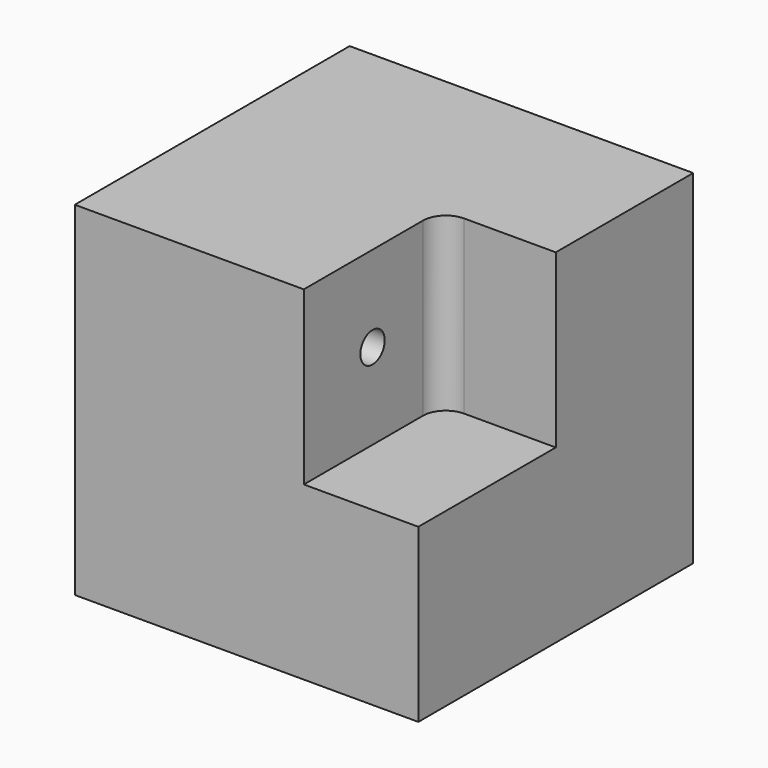
from build123d import *

# Parameters (mm, degrees)
F0_W     = 76.2
F0_H     = 76.2
F1_DEPTH = 38.1
F2_W     = 25.4
F2_H     = 38.1
F3_DEPTH = 38.1
F5_D     = 6.7564
F6_R     = 5.08


with BuildPart() as f1:
    # F0 (on Front) → F1 (new body, symmetric)
    with BuildSketch(Plane.XZ):
        Rectangle(F0_W, F0_H)
    extrude(amount=F1_DEPTH, both=True)

    # F2 (on face) → F3 (cut)
    with BuildSketch(Plane.XZ.offset(38.1)):
        with Locations((25.4, 19.05)):
            Rectangle(F2_W, F2_H)
    extrude(amount=-F3_DEPTH, mode=Mode.SUBTRACT)

    # F5 (through all)
    with Locations(Plane.YZ.offset(12.7)):
        with Locations((-19.05, 19.05)):
            Hole(F5_D / 2)

    # F6
    f6_edges = [f1.edges().sort_by_distance(p)[0] for p in [
        (12.7, 0, 19.05),
    ]]
    fillet(f6_edges, radius=F6_R)


solid = f1.part
